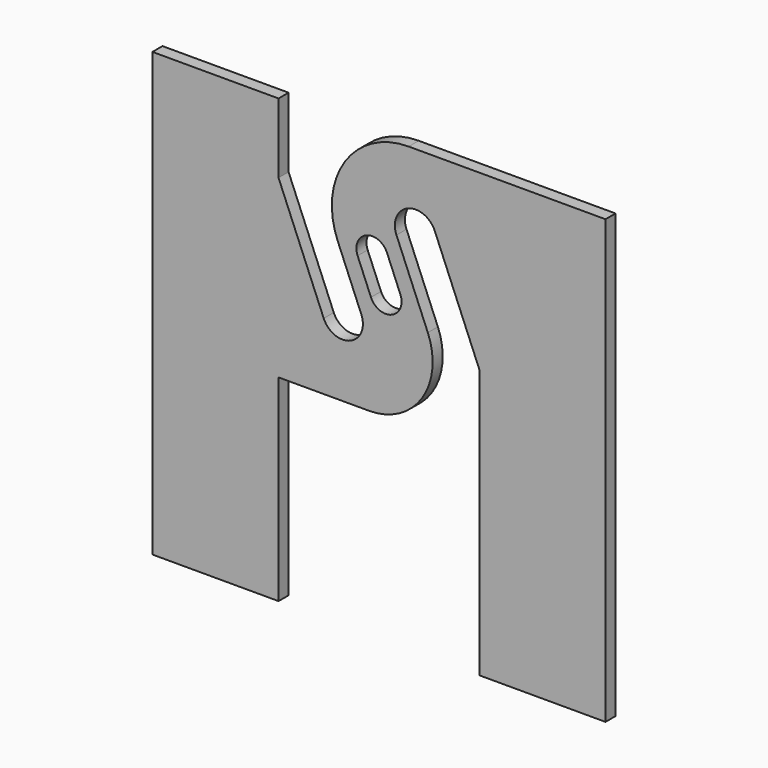
from build123d import *

# Parameters (mm, degrees)
F1_DEPTH = 0.81


with BuildPart() as f1:
    # F0 (on Front) → F1 (new body)
    with BuildSketch(Plane.XZ):
        with BuildLine():
            Line((-6.475, 3.412853), (-6.475, 7.915))
            Line((-6.475, 7.915), (-14.605, 7.915))
            Line((-14.605, 7.915), (-14.605, -7.915))
            Line((-14.605, -7.915), (-14.605, -20.615))
            Line((-14.605, -20.615), (-6.475, -20.615))
            Line((-6.475, -20.615), (-6.475, -7.915))
            Line((-6.475, -7.915), (-0.638679, -7.915))
            ThreePointArc((-0.638679, -7.915), (2.770346, -6.092838), (3.149227, -2.245998))
            Line((3.149227, -2.245998), (1.127017, 2.636048))
            ThreePointArc((1.127017, 2.636048), (1.85222, 4.386842), (3.603014, 3.661639))
            Line((3.603014, 3.661639), (6.475, -3.271947))
            Line((6.475, -3.271947), (6.475, -7.915))
            Line((6.475, -7.915), (6.475, -20.615))
            Line((6.475, -20.615), (14.605, -20.615))
            Line((14.605, -20.615), (14.605, -7.915))
            Line((14.605, -7.915), (14.605, 7.915))
            Line((14.605, 7.915), (6.475, 7.915))
            Line((6.475, 7.915), (1.915, 7.915))
            ThreePointArc((1.915, 7.915), (-2.203111, 5.713824), (-2.6608, 1.066831))
            Line((-2.6608, 1.066831), (-1.13634, -2.613541))
            ThreePointArc((-1.13634, -2.613541), (-1.846951, -4.329109), (-3.562519, -3.618498))
            Line((-3.562519, -3.618498), (-6.475, 3.412853))
        make_face()
        with BuildLine():
            Line((-0.516458, -1.431615), (-1.377495, 0.647114))
            ThreePointArc((-1.377495, 0.647114), (-0.822769, 1.986341), (0.516458, 1.431615))
            Line((0.516458, 1.431615), (1.377495, -0.647114))
            ThreePointArc((1.377495, -0.647114), (0.822769, -1.986341), (-0.516458, -1.431615))
        make_face(mode=Mode.SUBTRACT)
    extrude(amount=F1_DEPTH)


solid = f1.part
